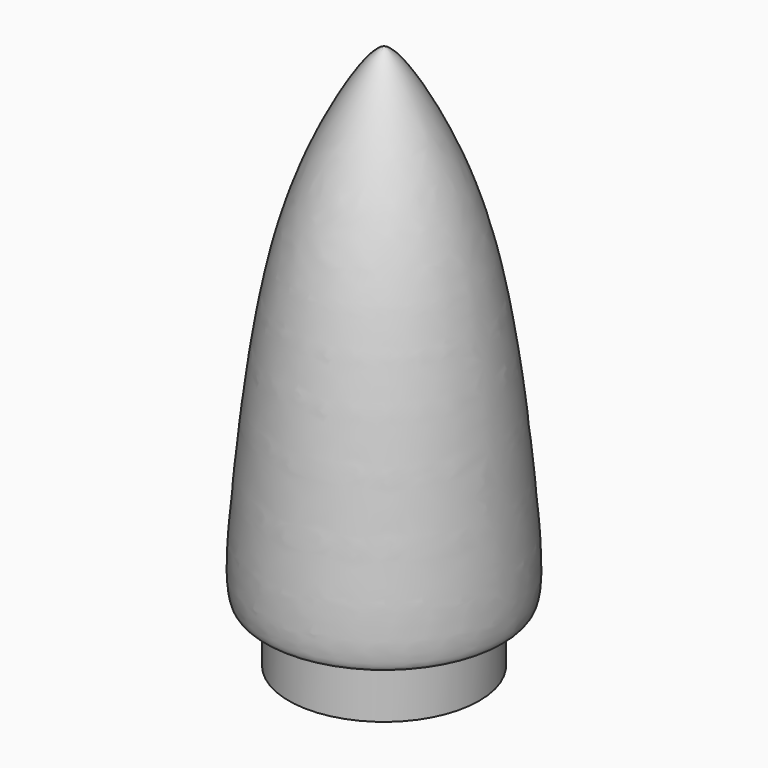
from build123d import *

# Parameters (mm, degrees)
F5_R     = 9.1072188875
F6_DEPTH = 254
F7_R     = 5.8386428143
F8_DEPTH = 38.1


with BuildPart() as f1:
    # F0 (on Front) → F1 (revolve)
    with BuildSketch(Plane.XZ):
        with BuildLine():
            Line((0, 269.7881758213), (0, 0))
            Line((0, 0), (47.2043938935, 0))
            Line((47.2043938935, 0), (47.2043938935, 28.4708719701))
            Line((47.2043938935, 28.4708719701), (58.4164373577, 28.4708719701))
            add(Edge.make_bspline(
                [(58.4164373577, 28.4708719701), (62.6499739309, 31.6947540989), (58.0310484766, 88.7115135533), (50.6875261106, 154.5528853053), (34.94207928, 221.3532934929), (5.7995176102, 269.518449972), (0, 269.7881758213)],
                knots=[0, 0, 0, 0, 0.2278311216, 0.5002657554, 0.7740048203, 1, 1, 1, 1], degree=3))
        make_face()
    revolve(axis=Axis((0, 0, 134.8940879107), (0, 0, 1)))

    # F2 (on Right) → F3 (revolve, cut)
    with BuildSketch(Plane.YZ):
        with BuildLine():
            Line((0, 252.2926926613), (0, 0))
            Line((0, 0), (34.9331647158, 0))
            Line((34.9331647158, 0), (34.9331647158, 28.3906478435))
            Line((34.9331647158, 28.3906478435), (34.9331647158, 36.9371213019))
            Line((34.9331647158, 36.9371213019), (47.3255626857, 36.9371213019))
            add(Edge.make_bspline(
                [(47.3255626857, 36.9371213019), (49.0382284787, 42.0751246531), (47.4559925575, 68.2149654231), (40.0148851899, 137.3376914459), (28.5607626877, 187.0453050999), (13.1217766484, 239.0600692181), (0, 252.2926926613)],
                knots=[0, 0, 0, 0, 0.1803661211, 0.464908647, 0.7200577379, 1, 1, 1, 1], degree=3))
        make_face()
    revolve(axis=Axis((0, 0, 126.1463463306), (0, 0, -1)), mode=Mode.SUBTRACT)

    # F5 (on offset) → F6 (join, through all)
    with BuildSketch(Plane.XY.offset(254)):
        Circle(F5_R)
    extrude(amount=-F6_DEPTH)

    # F7 (on face) → F8 (cut)
    with BuildSketch(Plane(origin=(0, 0, 0), x_dir=(1, 0, 0), z_dir=(0, 0, -1))):
        Circle(F7_R)
    extrude(amount=-F8_DEPTH, mode=Mode.SUBTRACT)


solid = f1.part
